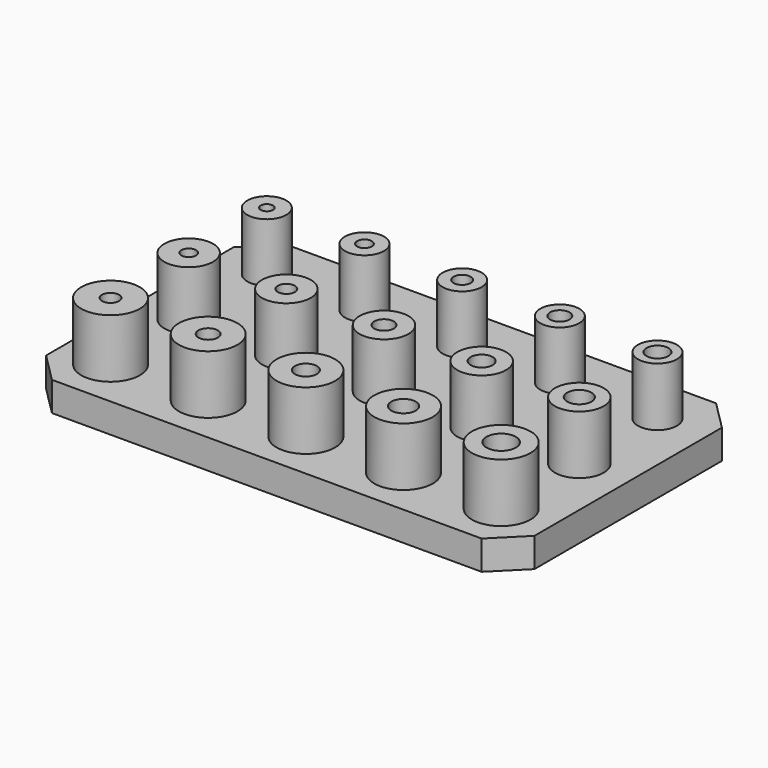
from build123d import *

# Parameters (mm, degrees)
F0_W      = 50
F0_H      = 30
F1_DEPTH  = 3
F2_SIZE   = 3
F4_R      = 2.5
F4_R_2    = 2
F4_R_3    = 3
F5_DEPTH  = 6
F6_D      = 2
F6_DEPTH  = 7
F6_TIP    = 0.600860619
F7_D      = 1.75
F7_DEPTH  = 7
F7_TIP    = 0.5257530416
F8_D      = 1.5
F8_DEPTH  = 7
F8_TIP    = 0.4506454643
F9_D      = 1.25
F9_DEPTH  = 7
F9_TIP    = 0.3755378869
F10_D     = 2.25
F10_DEPTH = 7
F10_TIP   = 0.6759681964
F11_D     = 2.5
F11_DEPTH = 7
F11_TIP   = 0.7510757738
F12_D     = 3
F12_DEPTH = 7
F12_TIP   = 0.9012909285


with BuildPart() as f1:
    # F0 (on Top) → F1 (new body)
    with BuildSketch(Plane.XY):
        Rectangle(F0_W, F0_H)
    extrude(amount=-F1_DEPTH)

    # F2
    f2_edges = [f1.edges().sort_by_distance(p)[0] for p in [
        (-25, -15, -1.5),
        (25, -15, -1.5),
        (25, 15, -1.5),
        (-25, 15, -1.5),
    ]]
    chamfer(f2_edges, length=F2_SIZE)

    # F4 (on offset) → F5 (join)
    with BuildSketch(Plane.XY.offset(6)):
        with Locations((-20, 0)):
            Circle(F4_R)
        with Locations((-10, 0)):
            Circle(F4_R)
        Circle(F4_R)
        with Locations((10, 0)):
            Circle(F4_R)
        with Locations((20, 0)):
            Circle(F4_R)
        with Locations((-20, 10)):
            Circle(F4_R_2)
        with Locations((-10, 10)):
            Circle(F4_R_2)
        with Locations((0, 10)):
            Circle(F4_R_2)
        with Locations((10, 10)):
            Circle(F4_R_2)
        with Locations((20, 10)):
            Circle(F4_R_2)
        with Locations((-20, -10)):
            Circle(F4_R_3)
        with Locations((-10, -10)):
            Circle(F4_R_3)
        with Locations((0, -10)):
            Circle(F4_R_3)
        with Locations((10, -10)):
            Circle(F4_R_3)
        with Locations((20, -10)):
            Circle(F4_R_3)
    extrude(amount=-F5_DEPTH)

    # F6
    with Locations(Plane.XY.offset(6)):
        with Locations((0, 0), (10, 10), (-10, -10)):
            Hole(F6_D / 2, depth=F6_DEPTH)
            with Locations((0, 0, -(F6_DEPTH + F6_TIP / 2))):  # 118° drill point
                Cone(0, F6_D / 2, F6_TIP, mode=Mode.SUBTRACT)

    # F7
    with Locations(Plane.XY.offset(6)):
        with Locations((-20, -10), (-10, 0), (0, 10)):
            Hole(F7_D / 2, depth=F7_DEPTH)
            with Locations((0, 0, -(F7_DEPTH + F7_TIP / 2))):  # 118° drill point
                Cone(0, F7_D / 2, F7_TIP, mode=Mode.SUBTRACT)

    # F8
    with Locations(Plane.XY.offset(6)):
        with Locations((-20, 0), (-10, 10)):
            Hole(F8_D / 2, depth=F8_DEPTH)
            with Locations((0, 0, -(F8_DEPTH + F8_TIP / 2))):  # 118° drill point
                Cone(0, F8_D / 2, F8_TIP, mode=Mode.SUBTRACT)

    # F9
    with Locations(Plane.XY.offset(6)):
        with Locations((-20, 10)):
            Hole(F9_D / 2, depth=F9_DEPTH)
            with Locations((0, 0, -(F9_DEPTH + F9_TIP / 2))):  # 118° drill point
                Cone(0, F9_D / 2, F9_TIP, mode=Mode.SUBTRACT)

    # F10
    with Locations(Plane.XY.offset(6)):
        with Locations((0, -10), (10, 0), (20, 10)):
            Hole(F10_D / 2, depth=F10_DEPTH)
            with Locations((0, 0, -(F10_DEPTH + F10_TIP / 2))):  # 118° drill point
                Cone(0, F10_D / 2, F10_TIP, mode=Mode.SUBTRACT)

    # F11
    with Locations(Plane.XY.offset(6)):
        with Locations((10, -10), (20, 0)):
            Hole(F11_D / 2, depth=F11_DEPTH)
            with Locations((0, 0, -(F11_DEPTH + F11_TIP / 2))):  # 118° drill point
                Cone(0, F11_D / 2, F11_TIP, mode=Mode.SUBTRACT)

    # F12
    with Locations(Plane.XY.offset(6)):
        with Locations((20, -10)):
            Hole(F12_D / 2, depth=F12_DEPTH)
            with Locations((0, 0, -(F12_DEPTH + F12_TIP / 2))):  # 118° drill point
                Cone(0, F12_D / 2, F12_TIP, mode=Mode.SUBTRACT)


solid = f1.part
